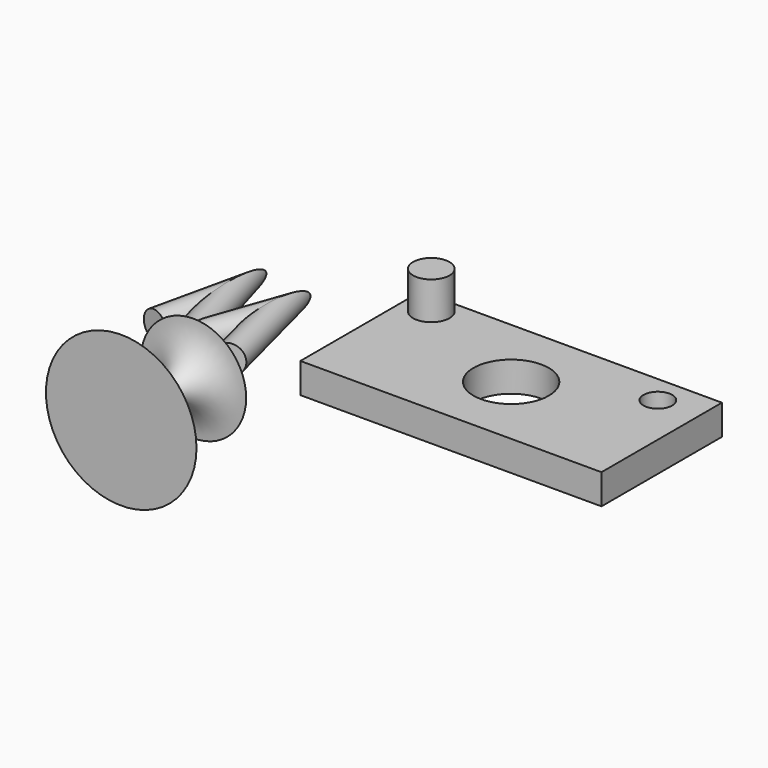
from build123d import *

# Parameters (mm, degrees)
F0_W     = 200
F0_H     = 100
F0_R     = 25
F1_DEPTH = 20
F2_R     = 9.5562546225
F3_DEPTH = 10
F4_R     = 12.1114454646
F5_DEPTH = 25
F10_R    = 9.1946691557


with BuildPart() as f1:
    # F0 (on Top) → F1 (new body)
    with BuildSketch(Plane.XY):
        with Locations((100, 50)):
            Rectangle(F0_W, F0_H)
        with Locations((100, 50)):
            Circle(F0_R, mode=Mode.SUBTRACT)
    extrude(amount=F1_DEPTH)

    # F2 (on face) → F3 (cut)
    with BuildSketch(Plane.XY.offset(20)):
        with Locations((172.3332256079, 81.3933163881)):
            Circle(F2_R)
    extrude(amount=-F3_DEPTH, mode=Mode.SUBTRACT)

    # F4 (on face) → F5 (join)
    with BuildSketch(Plane.XY.offset(20)):
        with Locations((18.2912219316, 85.8220160007)):
            Circle(F4_R)
    extrude(amount=F5_DEPTH)


with BuildPart() as f7:
    # F6 (on Top) → F7 (revolve)
    with BuildSketch(Plane.XY):
        with BuildLine():
            ThreePointArc((-49, -42.3188542521), (-38.2970711804, -26.2257032445), (-20, -20))
            Line((-20, -20), (-55, -20))
            Line((-55, -20), (-55, -80))
            Line((-55, -80), (-5, -80))
            Line((-5, -80), (-49, -72.3188542521))
            Line((-49, -72.3188542521), (-49, -42.3188542521))
        make_face()
    revolve(axis=Axis((-55, -50, 0), (0, -1, 0)))


with BuildPart() as f11:
    # F11: sweep along a path in F8
    with BuildLine(Plane.XY) as f11_path:
        Line((-107.3636263609, 13.9726176858), (-97.7765619755, 56.8324439228))
        Line((-97.7765619755, 56.8324439228), (-83.6779251695, 8.8971117511))
        Line((-83.6779251695, 8.8971117511), (-66.7595788836, 56.8324439228))
        Line((-66.7595788836, 56.8324439228), (-54.352786392, 8.8971117511))
    # F10 (on line) → F11 (sweep)
    with BuildSketch(Plane(origin=(-2.139399341, -9.5643755294, 0), x_dir=(-0.9758839919, 0.2182897945, 0), z_dir=(0.2182897945, 0.9758839919, 0))):
        with Locations((108.3439812064, 0)):
            Circle(F10_R)
    sweep(path=f11_path.line, transition=Transition.RIGHT)


solid = Compound([f1.part, f7.part, f11.part])
